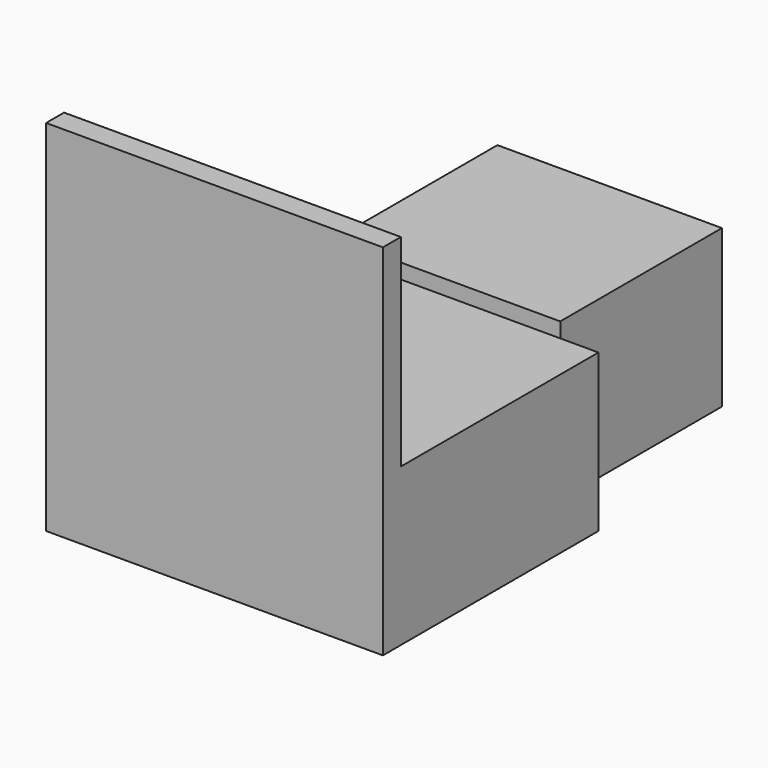
from build123d import *

# Parameters (mm, degrees)
F0_W          = 762
F0_H          = 609.6
F0_W_2        = 508
F0_H_2        = 457.2
F1_DEPTH      = 355.6
F2_W          = 50.8
F2_H          = 457.2
F3_DEPTH      = 381
F3_DEPTH_BACK = 381


with BuildPart() as f1:
    # F0 (on Top) → F1 (new body)
    with BuildSketch(Plane.XY):
        with Locations((0, 304.8)):
            Rectangle(F0_W, F0_H)
        with Locations((0, 889)):
            Rectangle(F0_W_2, F0_H_2)
    extrude(amount=F1_DEPTH)

    # F2 (on Right) → F3 (join, two sides)
    with BuildSketch(Plane.YZ) as f3_sk:
        with Locations((25.4, 584.2)):
            Rectangle(F2_W, F2_H)
    extrude(amount=F3_DEPTH)
    extrude(f3_sk.sketch, amount=-F3_DEPTH_BACK)


solid = f1.part
